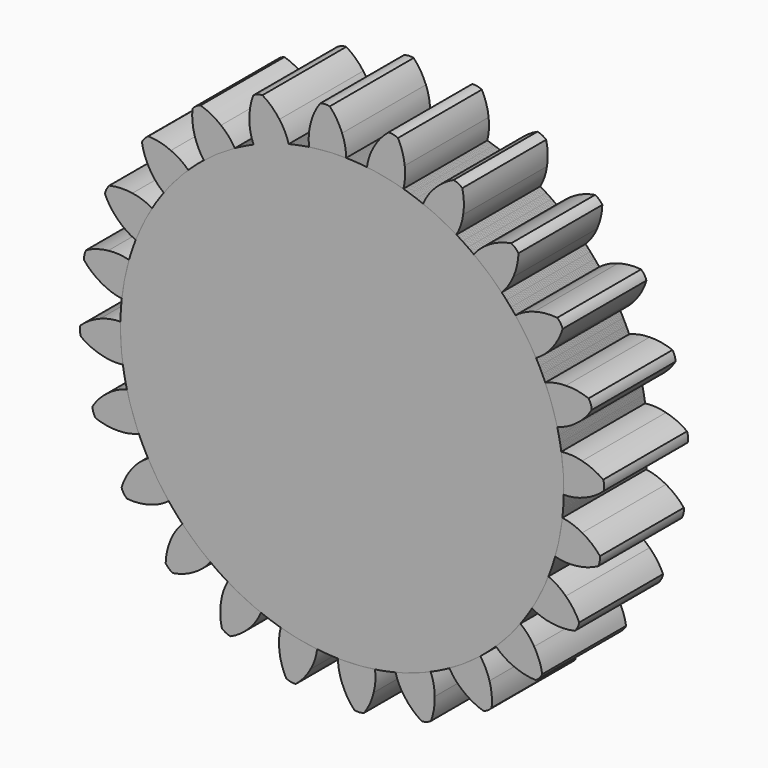
from build123d import *

# Parameters (mm, degrees)
F1_DEPTH = 1
F2_COUNT = 24


with BuildPart() as f1:
    # F0 (on Front) → F1 (new body)
    with BuildSketch(Plane.XZ):
        with BuildLine():
            ThreePointArc((-0.314433, 2.091496), (-0.138328, 2.110472), (0.038748, 2.114645))
            ThreePointArc((0.038748, 2.114645), (0.028879, 2.214208), (0, 2.31))
            ThreePointArc((0, 2.31), (-0.049469, 2.409332), (-0.117175, 2.497252))
            ThreePointArc((-0.117175, 2.497252), (-0.163905, 2.500714), (-0.209784, 2.491183))
            ThreePointArc((-0.209784, 2.491183), (-0.265435, 2.395177), (-0.301516, 2.290238))
            ThreePointArc((-0.301516, 2.290238), (-0.317644, 2.191495), (-0.314433, 2.091496))
        make_face()
        with BuildLine():
            ThreePointArc((-0.314433, 2.091496), (-1.379891, -1.602849), (2.115, 0))
            ThreePointArc((2.115, 0), (1.509168, 1.481768), (0.038748, 2.114645))
            ThreePointArc((0.038748, 2.114645), (-0.138328, 2.110472), (-0.314433, 2.091496))
        make_face()
    extrude(amount=F1_DEPTH)


with BuildPart() as f2_1:
    # F2: instance of F1
    add(f1.part.rotate(Axis((0, 0, 0), (0, 1, 0)), 1 * 360 / F2_COUNT))


with BuildPart() as f2_2:
    # F2: instance of F1
    add(f1.part.rotate(Axis((0, 0, 0), (0, 1, 0)), 2 * 360 / F2_COUNT))


with BuildPart() as f2_3:
    # F2: instance of F1
    add(f1.part.rotate(Axis((0, 0, 0), (0, 1, 0)), 3 * 360 / F2_COUNT))


with BuildPart() as f2_4:
    # F2: instance of F1
    add(f1.part.rotate(Axis((0, 0, 0), (0, 1, 0)), 4 * 360 / F2_COUNT))


with BuildPart() as f2_5:
    # F2: instance of F1
    add(f1.part.rotate(Axis((0, 0, 0), (0, 1, 0)), 5 * 360 / F2_COUNT))


with BuildPart() as f2_6:
    # F2: instance of F1
    add(f1.part.rotate(Axis((0, 0, 0), (0, 1, 0)), 6 * 360 / F2_COUNT))


with BuildPart() as f2_7:
    # F2: instance of F1
    add(f1.part.rotate(Axis((0, 0, 0), (0, 1, 0)), 7 * 360 / F2_COUNT))


with BuildPart() as f2_8:
    # F2: instance of F1
    add(f1.part.rotate(Axis((0, 0, 0), (0, 1, 0)), 8 * 360 / F2_COUNT))


with BuildPart() as f2_9:
    # F2: instance of F1
    add(f1.part.rotate(Axis((0, 0, 0), (0, 1, 0)), 9 * 360 / F2_COUNT))


with BuildPart() as f2_10:
    # F2: instance of F1
    add(f1.part.rotate(Axis((0, 0, 0), (0, 1, 0)), 10 * 360 / F2_COUNT))


with BuildPart() as f2_11:
    # F2: instance of F1
    add(f1.part.rotate(Axis((0, 0, 0), (0, 1, 0)), 11 * 360 / F2_COUNT))


with BuildPart() as f2_12:
    # F2: instance of F1
    add(f1.part.rotate(Axis((0, 0, 0), (0, 1, 0)), 12 * 360 / F2_COUNT))


with BuildPart() as f2_13:
    # F2: instance of F1
    add(f1.part.rotate(Axis((0, 0, 0), (0, 1, 0)), 13 * 360 / F2_COUNT))


with BuildPart() as f2_14:
    # F2: instance of F1
    add(f1.part.rotate(Axis((0, 0, 0), (0, 1, 0)), 14 * 360 / F2_COUNT))


with BuildPart() as f2_15:
    # F2: instance of F1
    add(f1.part.rotate(Axis((0, 0, 0), (0, 1, 0)), 15 * 360 / F2_COUNT))


with BuildPart() as f2_16:
    # F2: instance of F1
    add(f1.part.rotate(Axis((0, 0, 0), (0, 1, 0)), 16 * 360 / F2_COUNT))


with BuildPart() as f2_17:
    # F2: instance of F1
    add(f1.part.rotate(Axis((0, 0, 0), (0, 1, 0)), 17 * 360 / F2_COUNT))


with BuildPart() as f2_18:
    # F2: instance of F1
    add(f1.part.rotate(Axis((0, 0, 0), (0, 1, 0)), 18 * 360 / F2_COUNT))


with BuildPart() as f2_19:
    # F2: instance of F1
    add(f1.part.rotate(Axis((0, 0, 0), (0, 1, 0)), 19 * 360 / F2_COUNT))


with BuildPart() as f2_20:
    # F2: instance of F1
    add(f1.part.rotate(Axis((0, 0, 0), (0, 1, 0)), 20 * 360 / F2_COUNT))


with BuildPart() as f2_21:
    # F2: instance of F1
    add(f1.part.rotate(Axis((0, 0, 0), (0, 1, 0)), 21 * 360 / F2_COUNT))


with BuildPart() as f2_22:
    # F2: instance of F1
    add(f1.part.rotate(Axis((0, 0, 0), (0, 1, 0)), 22 * 360 / F2_COUNT))


with BuildPart() as f2_23:
    # F2: instance of F1
    add(f1.part.rotate(Axis((0, 0, 0), (0, 1, 0)), 23 * 360 / F2_COUNT))


solid = Compound([f1.part, f2_1.part, f2_2.part, f2_3.part, f2_4.part, f2_5.part, f2_6.part, f2_7.part, f2_8.part, f2_9.part, f2_10.part, f2_11.part, f2_12.part, f2_13.part, f2_14.part, f2_15.part, f2_16.part, f2_17.part, f2_18.part, f2_19.part, f2_20.part, f2_21.part, f2_22.part, f2_23.part])
